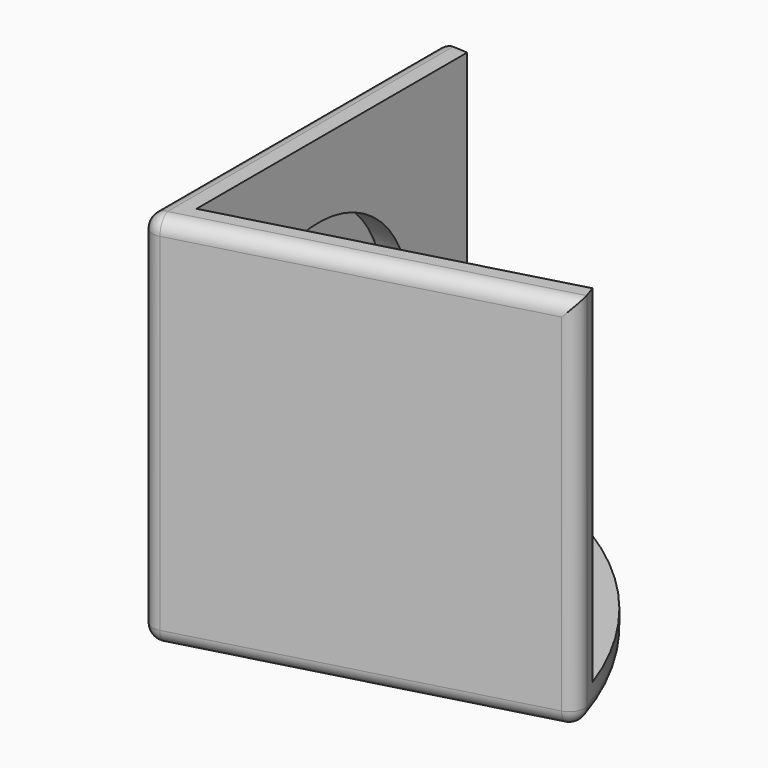
from build123d import *

# Parameters (mm, degrees)
PAD_DEPTH       = 25.4
POCKET_DEPTH    = 23.4
SKETCH002_R     = 7.6
POCKET001_DEPTH = 1.8
FILLET_R        = 1


with BuildPart() as corner:
    # Sketch → Pad (new body)
    with BuildSketch(Plane.XY):
        with BuildLine():
            Line((0, 0), (0, -25.4))
            ThreePointArc((0, -25.4), (15.435414, -20.171961), (24.516737, -6.64))
            Line((0, 0), (24.516737, -6.64))
        make_face()
    extrude(amount=PAD_DEPTH)

    # Sketch001 (on Face5 of Pad) → Pocket (cut)
    with BuildSketch(Plane.XY.offset(25.4)):
        with BuildLine():
            Line((2, -2.5), (2, -27.9))
            ThreePointArc((2, -27.9), (17.435414, -22.671961), (26.516737, -9.14))
            Line((2, -2.5), (26.516737, -9.14))
        make_face()
    extrude(amount=-POCKET_DEPTH, mode=Mode.SUBTRACT)

    # Sketch002 (on Face8 of Pocket) → Pocket001 (cut)
    with BuildSketch(Plane.YZ.offset(2)):
        with Locations((-12.8, 12.8)):
            Circle(SKETCH002_R)
    extrude(amount=-POCKET001_DEPTH, mode=Mode.SUBTRACT)

    # Fillet
    fillet_edges = [corner.edges().sort_by_distance(p)[0] for p in [
        (0, 0, 12.7),
        (12.258369, -3.32, 25.4),
        (24.516737, -6.64, 12.7),
        (12.258369, -3.32, 0),
        (0, -12.7, 0),
        (15.435414, -20.171961, 0),
        (0, -25.4, 12.7),
        (0, -12.7, 25.4),
    ]]
    fillet(fillet_edges, radius=FILLET_R)


with BuildPart() as part_mirroring:
    # Part__Mirroring: instance of Corner
    add(corner.part.mirror(Plane(origin=(0, 0, 0), x_dir=(1, 0, 0), z_dir=(0, 1, 0))))


solid = part_mirroring.part
